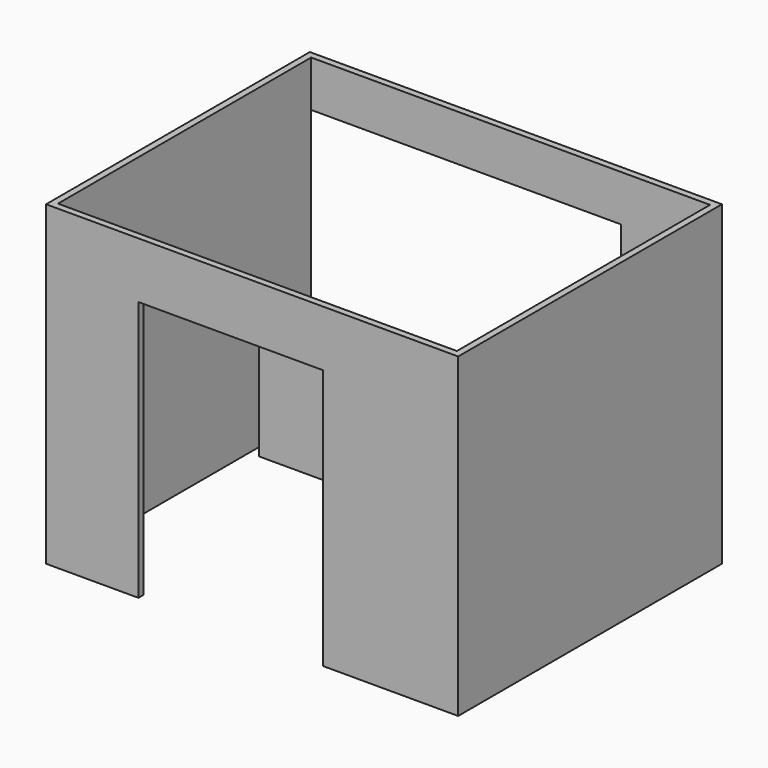
from build123d import *

# Parameters (mm, degrees)
F0_W      = 3175
F0_H      = 2540
F0_W_2    = 3073.4
F0_H_2    = 2438.4
F1_DEPTH  = 2438.4
F2_W      = 1422.4
F2_H      = 2006.6
F3_DEPTH  = 50.8
F4_W      = 2438.4
F4_H      = 1371.6
F5_DEPTH  = 50.8
F6_W      = 1244.6
F6_H      = 228.6
F7_DEPTH  = 508
F8_W      = 508
F8_H      = 558.8
F9_DEPTH  = 838.2
F10_W     = 152.4
F10_H     = 254
F11_DEPTH = 228.6
F12_W     = 914.4
F12_H     = 2133.6
F13_DEPTH = 609.6
F15_DEPTH = 2133.6


with BuildPart() as f1:
    # F0 (on Top) → F1 (new body)
    with BuildSketch(Plane.XY):
        with Locations((-69.814301, -104.071956)):
            Rectangle(F0_W, F0_H)
        with Locations((-69.814301, -104.071956)):
            Rectangle(F0_W_2, F0_H_2, mode=Mode.SUBTRACT)
    extrude(amount=F1_DEPTH)

    # F2 (on face) → F3 (cut, through all)
    with BuildSketch(Plane.XZ.offset(1374.071956)):
        with Locations((-234.914301, 1003.3)):
            Rectangle(F2_W, F2_H)
    extrude(amount=-F3_DEPTH, mode=Mode.SUBTRACT)

    # F4 (on face) → F5 (cut, through all)
    with BuildSketch(Plane.XZ.offset(-1115.128044)):
        with Locations((-438.114301, 1397)):
            Rectangle(F4_W, F4_H)
    extrude(amount=-F5_DEPTH, mode=Mode.SUBTRACT)


with BuildPart() as f7:
    # F6 (on Top) → F7 (new body)
    with BuildSketch(Plane.XY):
        with Locations((-247.614301, 981.778044)):
            Rectangle(F6_W, F6_H)
    extrude(amount=F7_DEPTH)

    # F10 (on face) → F11 (cut, through all)
    with BuildSketch(Plane.XZ.offset(-867.478044)):
        with Locations((-793.714301, 381)):
            Rectangle(F10_W, F10_H)
    extrude(amount=-F11_DEPTH, mode=Mode.SUBTRACT)


with BuildPart() as f9:
    # F8 (on Top) → F9 (new body)
    with BuildSketch(Plane.XY):
        with Locations((-1276.314301, 797.628044)):
            Rectangle(F8_W, F8_H)
    extrude(amount=F9_DEPTH)


with BuildPart() as f13:
    # F12 (on Top) → F13 (new body)
    with BuildSketch(Plane.XY):
        with Locations((933.485699, -104.071956)):
            Rectangle(F12_W, F12_H)
    extrude(amount=F13_DEPTH)

    # F14 (on face) → F15 (intersect, through all)
    with BuildSketch(Plane.XZ.offset(1170.871956)):
        with BuildLine():
            ThreePointArc((1308.73337, 609.6), (1276.482252, 598.049273), (1258.897428, 568.649819))
            Line((1258.897428, 568.649819), (1196.093633, 250.889042))
            ThreePointArc((1196.093633, 250.889042), (1143.006498, 170.554735), (1048.815629, 150.556607))
            Line((1048.815629, 150.556607), (566.09859, 238.202422))
            ThreePointArc((566.09859, 238.202422), (503.653652, 221.724993), (476.285699, 163.228232))
            Line((476.285699, 163.228232), (476.285699, 86.777865))
            ThreePointArc((476.285699, 86.777865), (484.563488, 58.983953), (506.699145, 40.247999))
            Line((506.699145, 40.247999), (598.560375, 0))
            Line((598.560375, 0), (1390.685699, 0))
            Line((1390.685699, 0), (1390.685699, 558.8))
            ThreePointArc((1390.685699, 558.8), (1375.806724, 594.721024), (1339.885699, 609.6))
            Line((1339.885699, 609.6), (1308.73337, 609.6))
        make_face()
    extrude(amount=-F15_DEPTH, mode=Mode.INTERSECT)


solid = Compound([f1.part, f7.part, f9.part, f13.part])
